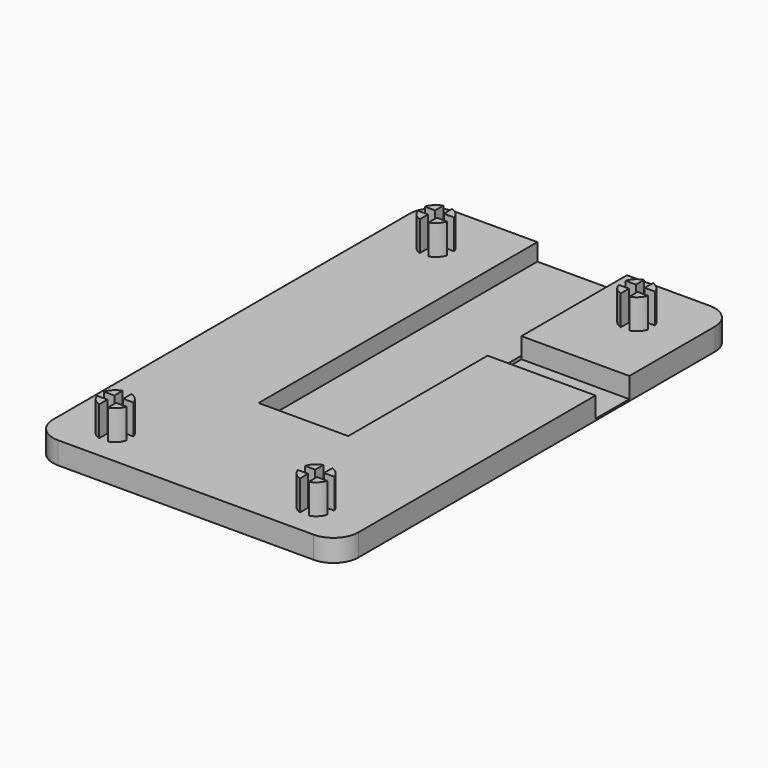
from build123d import *

# Parameters (mm, degrees)
PAD_DEPTH       = 4.45
SKETCH001_W     = 18
SKETCH001_H     = 70
POCKET_DEPTH    = 3.45
SKETCH002_R     = 3.075
PAD001_DEPTH    = 6
POCKET001_DEPTH = 6
SKETCH004_W     = 21.675
SKETCH004_H     = 8.5
POCKET002_DEPTH = 4.1


with BuildPart() as part:
    # Sketch → Pad (new body)
    with BuildSketch(Plane.XY):
        with BuildLine():
            Line((-30.675, 44.765), (-30.675, -44.765))
            ThreePointArc((-30.675, -44.765), (-29.210534, -48.300534), (-25.675, -49.765))
            Line((-25.675, -49.765), (25.675, -49.765))
            ThreePointArc((25.675, -49.765), (29.210534, -48.300534), (30.675, -44.765))
            Line((30.675, -44.765), (30.675, 44.765))
            ThreePointArc((30.675, 44.765), (29.210534, 48.300534), (25.675, 49.765))
            Line((25.675, 49.765), (-25.675, 49.765))
            ThreePointArc((-25.675, 49.765), (-29.210534, 48.300534), (-30.675, 44.765))
        make_face()
    extrude(amount=PAD_DEPTH)

    # Sketch001 (on Face10 of Pad) → Pocket (cut)
    with BuildSketch(Plane.XY.offset(4.45)):
        with Locations((0, 14.765)):
            Rectangle(SKETCH001_W, SKETCH001_H)
    extrude(amount=-POCKET_DEPTH, mode=Mode.SUBTRACT)

    # Sketch002 (on Face5 of Pocket) → Pad001 (join)
    with BuildSketch(Plane.XY.offset(4.45)):
        with Locations((-20.175, 38.265)):
            Circle(SKETCH002_R)
        with Locations((20.175, 38.265)):
            Circle(SKETCH002_R)
        with Locations((-20.175, -42.265)):
            Circle(SKETCH002_R)
        with Locations((20.175, -42.265)):
            Circle(SKETCH002_R)
    extrude(amount=PAD001_DEPTH)

    # Sketch003 (on Face21 of Pad001) → Pocket001 (cut)
    with BuildSketch(Plane.XY.offset(10.45)):
        Polygon((-21.058883, 42.348883), (-21.058883, 39.148883), (-24.258883, 39.148883), (-24.258883, 37.381117), (-21.058883, 37.381117), (-21.058883, 34.181117), (-19.291117, 34.181117), (-19.291117, 37.381117), (-16.091117, 37.381117), (-16.091117, 39.148883), (-19.291117, 39.148883), (-19.291117, 42.348883), align=None)
        Polygon((21.058883, 42.348883), (21.058883, 39.148883), (24.258883, 39.148883), (24.258883, 37.381117), (21.058883, 37.381117), (21.058883, 34.181117), (19.291117, 34.181117), (19.291117, 37.381117), (16.091117, 37.381117), (16.091117, 39.148883), (19.291117, 39.148883), (19.291117, 42.348883), align=None)
        Polygon((-21.058883, -46.508146), (-21.058883, -43.148883), (-24.418146, -43.148883), (-24.418146, -41.381117), (-21.058883, -41.381117), (-21.058883, -38.021854), (-19.291117, -38.021854), (-19.291117, -41.381117), (-15.931854, -41.381117), (-15.931854, -43.148883), (-19.291117, -43.148883), (-19.291117, -46.508146), align=None)
        Polygon((21.058883, -47.109884), (21.058883, -43.148883), (25.019884, -43.148883), (25.019884, -41.381117), (21.058883, -41.381117), (21.058883, -37.420116), (19.291117, -37.420116), (19.291117, -41.381117), (15.330116, -41.381117), (15.330116, -43.148883), (19.291117, -43.148883), (19.291117, -47.109884), align=None)
    extrude(amount=-POCKET001_DEPTH, mode=Mode.SUBTRACT)

    # Sketch004 (on Face14 of Pocket001) → Pocket002 (cut)
    with BuildSketch(Plane.XY.offset(4.45)):
        with Locations((19.8375, 19.015)):
            Rectangle(SKETCH004_W, SKETCH004_H)
    extrude(amount=-POCKET002_DEPTH, mode=Mode.SUBTRACT)


solid = part.part
